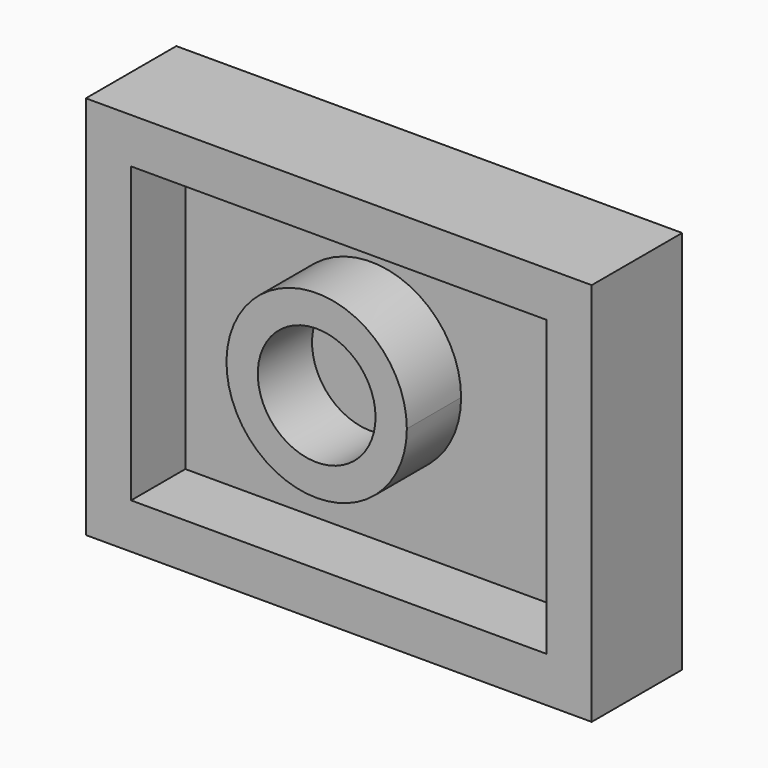
from build123d import *

# Parameters (mm, degrees)
F0_W     = 111.855097
F0_H     = 85.019909
F1_DEPTH = 25
F2_T     = -10
F3_R     = 13.018473
F4_DEPTH = 25


with BuildPart() as f1:
    # F0 (on Front) → F1 (new body)
    with BuildSketch(Plane.XZ):
        with Locations((4.890524, -1.253982)):
            Rectangle(F0_W, F0_H)
    extrude(amount=F1_DEPTH)

    # F2
    f2_openings = [f1.faces().sort_by_distance(p)[0] for p in [
        (4.890524, -25, -1.253981),
    ]]
    offset(amount=F2_T, openings=f2_openings)

    # F3 (on Front) → F4 (join)
    with BuildSketch(Plane.XZ):
        with BuildLine():
            ThreePointArc((6.744158, -18.764725), (16.310675, -11.469981), (19.939874, 0))
            ThreePointArc((19.939874, 0), (-11.469981, 16.310675), (-6.744158, -18.764725))
            ThreePointArc((-6.744158, -18.764725), (0, -19.939874), (6.744158, -18.764725))
        make_face()
        Circle(F3_R, mode=Mode.SUBTRACT)
    extrude(amount=F4_DEPTH)


solid = f1.part
